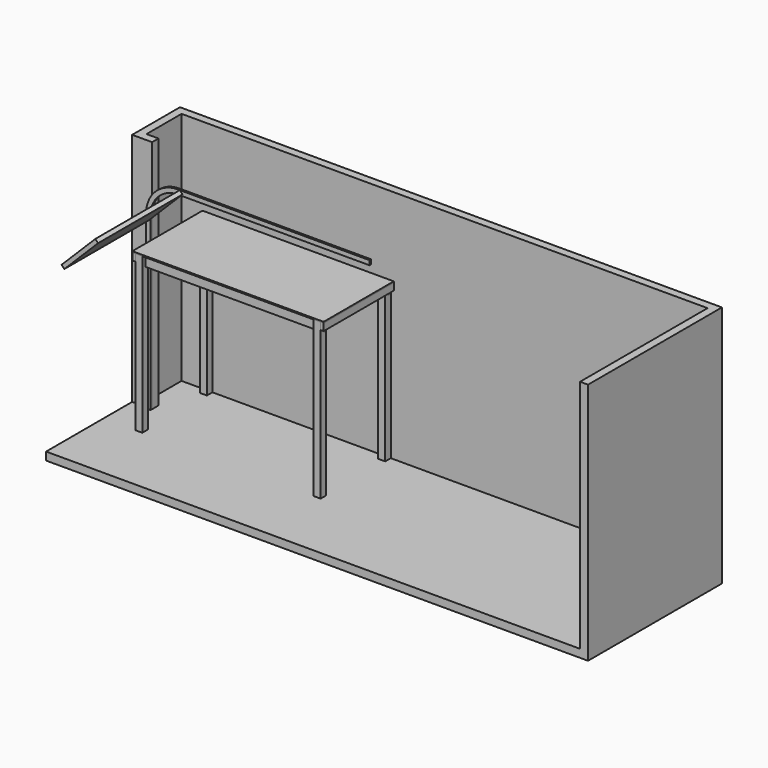
from build123d import *

# Parameters (mm, degrees)
F1_DEPTH  = 2997.2
F2_W      = 6908.8
F2_H      = 2133.6
F3_DEPTH  = 101.6
F5_DEPTH  = 25.4
F7_DEPTH  = 1346.2
F8_W      = 88.9
F8_H      = 88.9
F9_DEPTH  = 1981.2
F10_W     = 38.1
F10_H     = 139.7
F11_DEPTH = 2667
F12_DEPTH = 2362.2
F14_W     = 1117.6
F14_H     = 88.9
F15_DEPTH = 38.1
F17_W     = 2438.4
F17_H     = 1117.6
F18_DEPTH = 15.875


with BuildPart() as f1:
    # F0 (on Top) → F1 (new body)
    with BuildSketch(Plane.XY):
        Polygon((0, -101.6), (0, 0), (-152.4, 0), (-152.4, 558.8), (6553.2, 558.8), (6553.2, -1473.2), (6654.8, -1473.2), (6654.8, 660.4), (6553.2, 660.4), (-254, 660.4), (-254, -101.6), align=None)
    extrude(amount=F1_DEPTH)

    # F2 (on face) → F3 (join)
    with BuildSketch(Plane(origin=(0, 0, 0), x_dir=(1, 0, 0), z_dir=(0, 0, -1))):
        with Locations((3200.4, 406.4)):
            Rectangle(F2_W, F2_H)
    extrude(amount=F3_DEPTH)


with BuildPart() as f5:
    # F4 (on face) → F5 (new body)
    with BuildSketch(Plane.XZ.offset(101.6)):
        with BuildLine():
            Line((2794, 2590.8), (349.25, 2590.8))
            ThreePointArc((349.25, 2590.8), (61.881804, 2471.768196), (-57.15, 2184.4))
            Line((-57.15, 2184.4), (-57.15, 0))
            Line((-57.15, 0), (0, 0))
            Line((0, 0), (0, 2184.4))
            ThreePointArc((0, 2184.4), (102.292957, 2431.357043), (349.25, 2533.65))
            Line((349.25, 2533.65), (2794, 2533.65))
            Line((2794, 2533.65), (2794, 2590.8))
        make_face()
    extrude(amount=F5_DEPTH)


with BuildPart() as f7:
    # F6 (on face) → F7 (new body, through all)
    with BuildSketch(Plane.XZ.offset(127)):
        Polygon((373.902294, 2590.8), (-57.15, 2159.747706), (-21.228976, 2123.826682), (409.823318, 2554.878976), align=None)
    extrude(amount=F7_DEPTH)


with BuildPart() as f9:
    # F8 (on face) → F9 (new body)
    with BuildSketch(Plane.XY):
        with Locations((196.85, 514.35)):
            Rectangle(F8_W, F8_H)
        with Locations((2470.15, 514.35)):
            Rectangle(F8_W, F8_H)
        with Locations((196.85, -514.35)):
            Rectangle(F8_W, F8_H)
        with Locations((2470.15, -514.35)):
            Rectangle(F8_W, F8_H)
    extrude(amount=F9_DEPTH)

    # F10 (on face) → F11 (cut, through all)
    with BuildSketch(Plane.YZ.offset(2514.6)):
        with Locations((539.75, 1911.35)):
            Rectangle(F10_W, F10_H)
        with Locations((-488.95, 1911.35)):
            Rectangle(F10_W, F10_H)
    extrude(amount=-F11_DEPTH, mode=Mode.SUBTRACT)


with BuildPart() as f12:
    # F10 (on face) → F12 (new body, through all)
    with BuildSketch(Plane.YZ.offset(2514.6)):
        with Locations((539.75, 1911.35)):
            Rectangle(F10_W, F10_H)
        with Locations((-488.95, 1911.35)):
            Rectangle(F10_W, F10_H)
    extrude(amount=-F12_DEPTH)


with BuildPart() as f15:
    # F14 (on face) → F15 (new body)
    with BuildSketch(Plane.YZ.offset(2514.6)):
        with Locations((0, 1936.75)):
            Rectangle(F14_W, F14_H)
    extrude(amount=F15_DEPTH)


with BuildPart() as f16_1:
    # F16: instance of F15
    add(f15.part.mirror(Plane(origin=(1333.5, -515.141501, 961.908074), x_dir=(0, 1, 0), z_dir=(1, 0, 0))))


with BuildPart() as f18:
    # F17 (on face) → F18 (new body)
    with BuildSketch(Plane.XY.offset(1981.2)):
        with Locations((1333.5, 0)):
            Rectangle(F17_W, F17_H)
    extrude(amount=F18_DEPTH)


solid = Compound([f1.part, f5.part, f7.part, f9.part, f12.part, f15.part, f16_1.part, f18.part])
